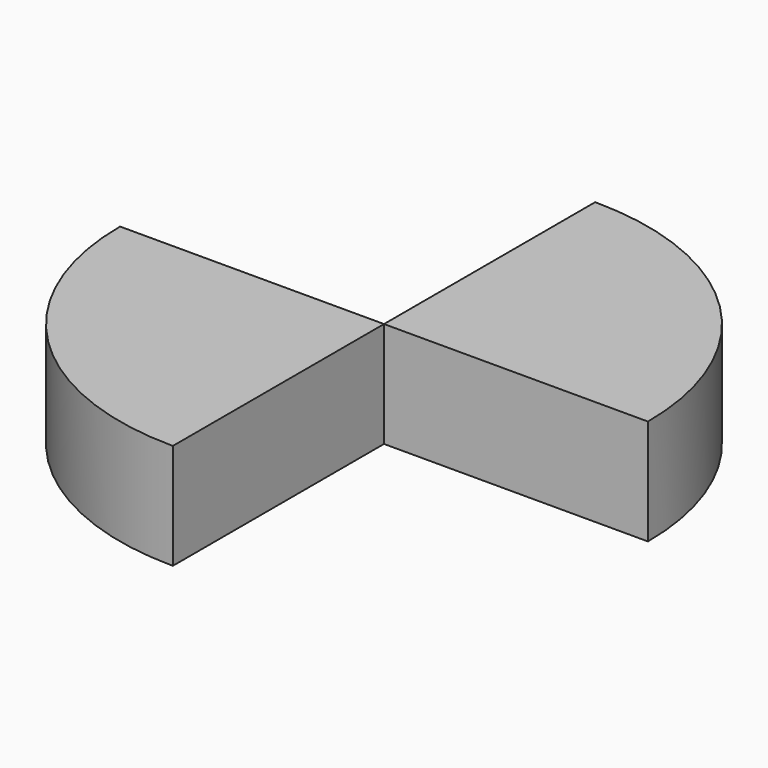
from build123d import *

# Parameters (mm, degrees)
F1_DEPTH = 1


with BuildPart() as f1:
    # F0 (on Top) → F1 (new body)
    with BuildSketch(Plane.XY):
        with BuildLine():
            Line((0, 0), (-2.5, 0))
            ThreePointArc((-2.5, 0), (-1.767767, -1.767767), (0, -2.5))
            Line((0, -2.5), (0, 0))
        make_face()
        with BuildLine():
            Line((0, 2.5), (0, 0))
            Line((0, 0), (2.5, 0))
            ThreePointArc((2.5, 0), (1.767767, 1.767767), (0, 2.5))
        make_face()
    extrude(amount=F1_DEPTH)


solid = f1.part
